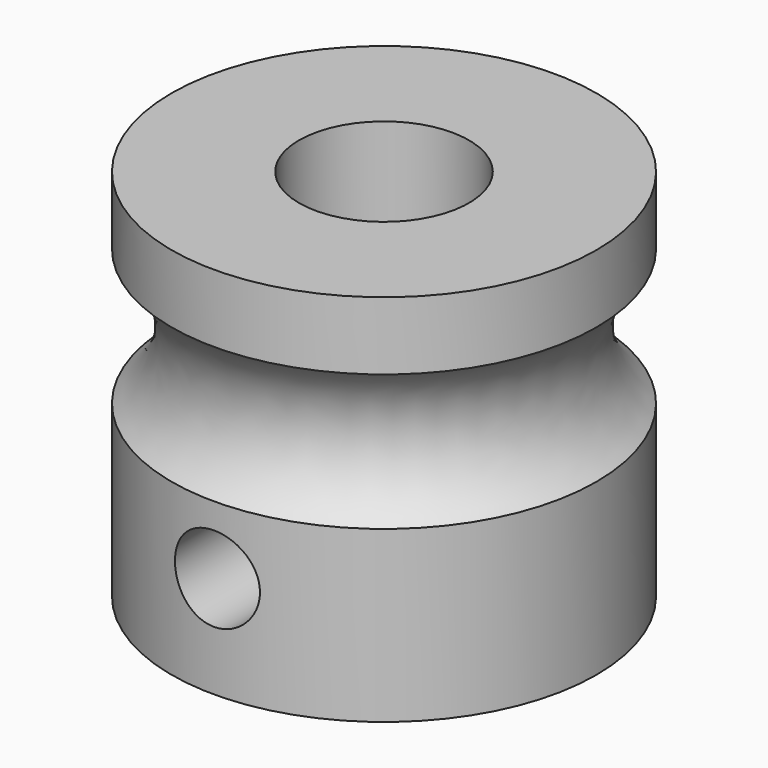
from build123d import *

# Parameters (mm, degrees)
CYLINDER_R                     = 1.25
CYLINDER_DEPTH                 = 10
CYLINDER_ROLL_ANGLE            = 90
REVOLVE_ONTO_SKETCH_ROLL_ANGLE = 90


with BuildPart() as setscrew_drill:
    # Cylinder → Cylinder (new body)
    with BuildSketch(Plane.XY):
        Circle(CYLINDER_R)
    extrude(amount=CYLINDER_DEPTH)


with BuildPart() as setscrew_drill_1:
    # Cylinder roll: moved
    add(setscrew_drill.part.rotate(Axis((0, 0, 0), (1, 0, 0)), CYLINDER_ROLL_ANGLE))


with BuildPart() as setscrew_drill_2:
    # Cylinder placement: moved
    add(setscrew_drill_1.part.moved(Location((0, 0, 3))))


with BuildPart() as extruder_drive_gear:
    # Sketch as drawn → Revolve (revolve)
    with BuildSketch(Plane.XY):
        with BuildLine():
            Line((-6.25, 5), (-6.25, 0))
            Line((-6.25, 0), (-2.5, 0))
            Line((-2.5, 0), (-2.5, 11))
            Line((-2.5, 11), (-6.25, 11))
            Line((-6.25, 11), (-6.25, 9))
            ThreePointArc((-6.25, 5), (-5.25, 7), (-6.25, 9))
        make_face()
    revolve(axis=Axis((0, 0, 0), (0, 1, 0)))


with BuildPart() as extruder_drive_gear_1:
    # Revolve onto Sketch roll: moved
    add(extruder_drive_gear.part.rotate(Axis((0, 0, 0), (1, 0, 0)), REVOLVE_ONTO_SKETCH_ROLL_ANGLE))


with BuildPart() as extruder_drive_gear_2:
    # Revolve onto Sketch placement: moved
    add(extruder_drive_gear_1.part)

    # Cut: cut setscrew-drill
    add(setscrew_drill_2.part, mode=Mode.SUBTRACT)


solid = extruder_drive_gear_2.part
